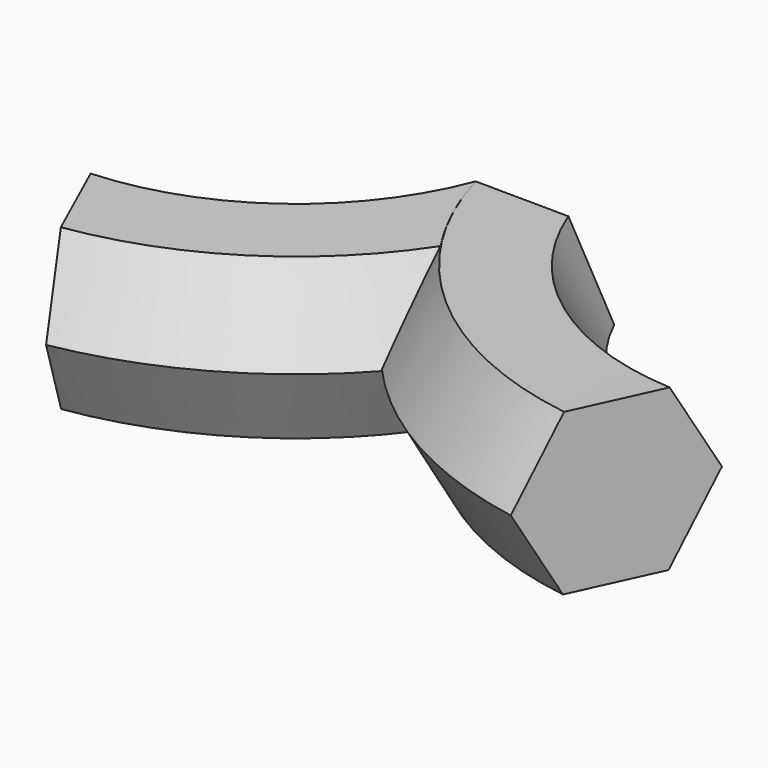
from build123d import *

# Parameters (mm, degrees)
F0_R = 12.7


with BuildPart() as f2:
    # F2: sweep along a path in F1
    with BuildLine(Plane.XY) as f2_path:
        ThreePointArc((-88.857807219, -72.1131786704), (-33.770108767, -49.1903487224), (0, 0))
    # F0 (on Front) → F2 (sweep)
    with BuildSketch(Plane.XZ):
        Polygon((-30.4794730405, 27.0658959038), (-15.3949537232, 0.5802832628), (15.0845193173, 0.401053875), (30.4794730405, 26.7074371281), (15.3949537232, 53.193049769), (-15.0845193173, 53.3722791569), align=None)
        with Locations((0, 26.8866665159)):
            Circle(F0_R, mode=Mode.SUBTRACT)
    sweep(path=f2_path.line)

    # F3: sweep along a path in F1
    with BuildLine(Plane.XY) as f3_path:
        ThreePointArc((88.857807219, -72.1131786704), (33.770108767, -49.1903487224), (0, 0))
    # F0 (on Front) → F3 (sweep)
    with BuildSketch(Plane.XZ):
        Polygon((-30.4794730405, 27.0658959038), (-15.3949537232, 0.5802832628), (15.0845193173, 0.401053875), (30.4794730405, 26.7074371281), (15.3949537232, 53.193049769), (-15.0845193173, 53.3722791569), align=None)
        with Locations((0, 26.8866665159)):
            Circle(F0_R, mode=Mode.SUBTRACT)
        with Locations((0, 26.8866665159)):
            Circle(F0_R)
    sweep(path=f3_path.line)


solid = f2.part
